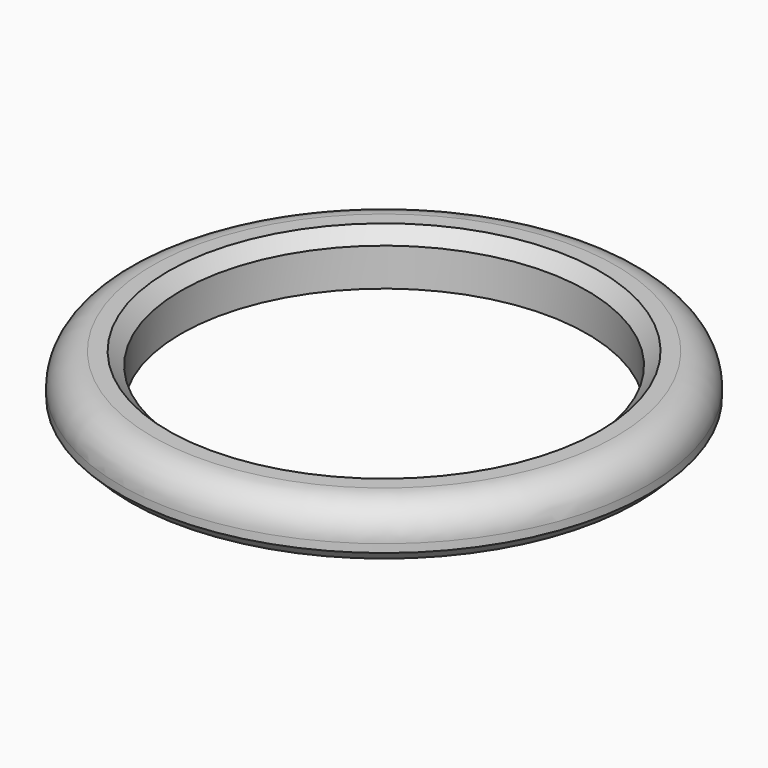
from build123d import *

# Parameters (mm, degrees)
F0_R     = 23
F0_R_2   = 20
F1_DEPTH = 5
F0_R_3   = 26
F2_DEPTH = 5
F3_R     = 3.175
F4_SIZE  = 1.27
F5_SIZE  = 1.016


with BuildPart() as f1:
    # F0 (on Top) → F1 (new body)
    with BuildSketch(Plane.XY):
        Circle(F0_R)
        Circle(F0_R_2, mode=Mode.SUBTRACT)
    extrude(amount=F1_DEPTH)

    # F0 (on Top) → F2 (join)
    with BuildSketch(Plane.XY):
        Circle(F0_R_3)
        Circle(F0_R, mode=Mode.SUBTRACT)
    extrude(amount=F2_DEPTH)

    # F3
    f3_edges = [f1.edges().sort_by_distance(p)[0] for p in [
        (-26, 0, 5),
    ]]
    fillet(f3_edges, radius=F3_R)

    # F4
    f4_edges = [f1.edges().sort_by_distance(p)[0] for p in [
        (-20, 0, 5),
    ]]
    chamfer(f4_edges, length=F4_SIZE)

    # F5
    f5_edges = [f1.edges().sort_by_distance(p)[0] for p in [
        (-26, 0, 0),
    ]]
    chamfer(f5_edges, length=F5_SIZE)


solid = f1.part
